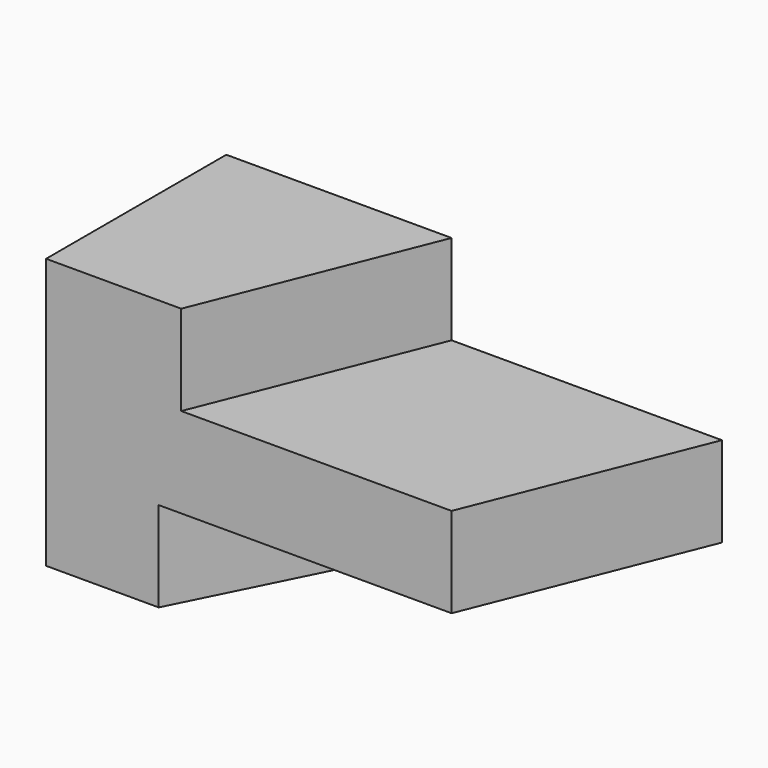
from build123d import *

# Parameters (mm, degrees)
F1_DEPTH = 31.75
F3_DEPTH = 12.7
F5_DEPTH = 12.7
F7_DEPTH = 12.7


with BuildPart() as f1:
    # F0 (on Front) → F1 (new body)
    with BuildSketch(Plane.XZ):
        Polygon((-78.642312, 38.1), (-78.642312, 0), (-46.892312, 0), (-46.892312, 12.7), (-8.792312, 12.7), (-8.792312, 25.4), (-46.892312, 25.4), (-46.892312, 38.1), align=None)
    extrude(amount=F1_DEPTH)

    # F2 (on face) → F3 (cut)
    with BuildSketch(Plane(origin=(0, 0, 0), x_dir=(1, 0, 0), z_dir=(0, 0, -1))):
        Polygon((-46.892312, 31.75), (-62.767312, 31.75), (-46.892312, 0), align=None)
    extrude(amount=-F3_DEPTH, mode=Mode.SUBTRACT)

    # F4 (on face) → F5 (cut)
    with BuildSketch(Plane.XY.offset(38.1)):
        Polygon((-46.892312, 0), (-59.592312, -31.75), (-46.892312, -31.75), align=None)
    extrude(amount=-F5_DEPTH, mode=Mode.SUBTRACT)

    # F6 (on face) → F7 (cut)
    with BuildSketch(Plane(origin=(0, 0, 12.7), x_dir=(1, 0, 0), z_dir=(0, 0, -1))):
        Polygon((-8.792312, 31.75), (-21.492312, 31.75), (-8.792312, 0), align=None)
    extrude(amount=-F7_DEPTH, mode=Mode.SUBTRACT)


solid = f1.part
